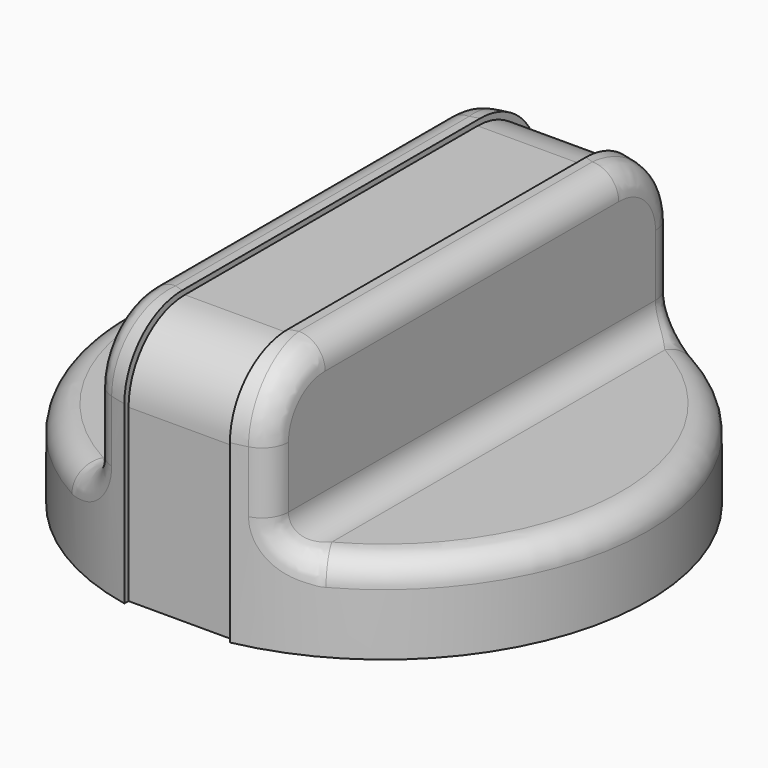
from build123d import *

# Parameters (mm, degrees)
BOX007_W          = 10
BOX007_H          = 10
BOX007_DEPTH      = 17
CYLINDER002_R     = 3.4
CYLINDER002_DEPTH = 13
BOX006_W          = 6
BOX006_H          = 10
BOX006_DEPTH      = 15
BOX005_W          = 6
BOX005_H          = 10
BOX005_DEPTH      = 15
CYLINDER001_R     = 15
CYLINDER001_DEPTH = 2.5
BOX004_W          = 6
BOX004_H          = 10
BOX004_DEPTH      = 15
BOX003_W          = 6
BOX003_H          = 10
BOX003_DEPTH      = 15
BOX002_W          = 6
BOX002_H          = 35
BOX002_DEPTH      = 10
BOX001_W          = 15
BOX001_H          = 35
BOX001_DEPTH      = 10
BOX_W             = 15
BOX_H             = 35
BOX_DEPTH         = 10
CYLINDER_R        = 15
CYLINDER_DEPTH    = 12
FILLET_R          = 4
FILLET001_R       = 1.5
FILLET002_R       = 1.5


with BuildPart() as cubo005:
    # Box007 → Box007 (new body)
    with BuildSketch(Plane(origin=(-5, 2.6, -28), x_dir=(1, 0, 0), z_dir=(0, 0, 1))):
        with Locations((5, 5)):
            Rectangle(BOX007_W, BOX007_H)
    extrude(amount=BOX007_DEPTH)


with BuildPart() as cut007:
    # Cylinder002 → Cylinder002 (new body)
    with BuildSketch(Plane.XY.offset(-26)):
        Circle(CYLINDER002_R)
    extrude(amount=CYLINDER002_DEPTH)

    # Cut007: cut Cubo005
    add(cubo005.part, mode=Mode.SUBTRACT)


with BuildPart() as cut007_1:
    # Cut007 placement: moved
    add(cut007.part.moved(Location((0, 0, 23))))


with BuildPart() as cubo004:
    # Box006 → Box006 (new body)
    with BuildSketch(Plane(origin=(-3, 14.4, -2), x_dir=(1, 0, 0), z_dir=(0, 0, 1))):
        with Locations((3, 5)):
            Rectangle(BOX006_W, BOX006_H)
    extrude(amount=BOX006_DEPTH)


with BuildPart() as cubo003:
    # Box005 → Box005 (new body)
    with BuildSketch(Plane(origin=(-3, -24.4, -2), x_dir=(1, 0, 0), z_dir=(0, 0, 1))):
        with Locations((3, 5)):
            Rectangle(BOX005_W, BOX005_H)
    extrude(amount=BOX005_DEPTH)


with BuildPart() as cilindro001:
    # Cylinder001 → Cylinder001 (new body)
    with BuildSketch(Plane.XY.offset(-2)):
        Circle(CYLINDER001_R)
    extrude(amount=CYLINDER001_DEPTH)


with BuildPart() as cubo002:
    # Box004 → Box004 (new body)
    with BuildSketch(Plane(origin=(-3, -24.4, -2), x_dir=(1, 0, 0), z_dir=(0, 0, 1))):
        with Locations((3, 5)):
            Rectangle(BOX004_W, BOX004_H)
    extrude(amount=BOX004_DEPTH)


with BuildPart() as cubo001:
    # Box003 → Box003 (new body)
    with BuildSketch(Plane(origin=(-3, 14.4, -2), x_dir=(1, 0, 0), z_dir=(0, 0, 1))):
        with Locations((3, 5)):
            Rectangle(BOX003_W, BOX003_H)
    extrude(amount=BOX003_DEPTH)


with BuildPart() as cubo:
    # Box002 → Box002 (new body)
    with BuildSketch(Plane(origin=(-3, -17, 11.7), x_dir=(1, 0, 0), z_dir=(0, 0, 1))):
        with Locations((3, 17.5)):
            Rectangle(BOX002_W, BOX002_H)
    extrude(amount=BOX002_DEPTH)


with BuildPart() as box001:
    # Box001 → Box001 (new body)
    with BuildSketch(Plane(origin=(-20, -15, 3), x_dir=(1, 0, 0), z_dir=(0, 0, 1))):
        with Locations((7.5, 17.5)):
            Rectangle(BOX001_W, BOX001_H)
    extrude(amount=BOX001_DEPTH)


with BuildPart() as box:
    # Box → Box (new body)
    with BuildSketch(Plane(origin=(5, -15, 3), x_dir=(1, 0, 0), z_dir=(0, 0, 1))):
        with Locations((7.5, 17.5)):
            Rectangle(BOX_W, BOX_H)
    extrude(amount=BOX_DEPTH)


with BuildPart() as fuel_knob:
    # Cylinder → Cylinder (new body)
    with BuildSketch(Plane.XY):
        Circle(CYLINDER_R)
    extrude(amount=CYLINDER_DEPTH)

    # Cut: cut Box
    add(box.part, mode=Mode.SUBTRACT)

    # Cut001: cut Box001
    add(box001.part, mode=Mode.SUBTRACT)

    # Cut002: cut Cubo
    add(cubo.part, mode=Mode.SUBTRACT)

    # Cut003: cut Cubo001
    add(cubo001.part, mode=Mode.SUBTRACT)

    # Cut004: cut Cubo002
    add(cubo002.part, mode=Mode.SUBTRACT)

    # Fusion: union Cilindro001
    add(cilindro001.part)

    # Cut005: cut Cubo003
    add(cubo003.part, mode=Mode.SUBTRACT)

    # Cut006: cut Cubo004
    add(cubo004.part, mode=Mode.SUBTRACT)

    # Fillet
    fillet_edges = [fuel_knob.edges().sort_by_distance(p)[0] for p in [
        (0, -14.4, 11.7),
        (0, 14.4, 11.7),
        (-4.009607, -14.454171, 12),
        (-4.009607, 14.454171, 12),
        (4.009607, 14.454171, 12),
        (4.009607, -14.454171, 12),
    ]]
    fillet(fillet_edges, radius=FILLET_R)

    # Fillet001
    fillet001_edges = [fuel_knob.edges().sort_by_distance(p)[0] for p in [
        (-5, 0, 3),
        (5, 0, 3),
    ]]
    fillet(fillet001_edges, radius=FILLET001_R)

    # Fillet002
    fillet002_edges = [fuel_knob.edges().sort_by_distance(p)[0] for p in [
        (-5, 0, 12),
        (5, 0, 12),
    ]]
    fillet(fillet002_edges, radius=FILLET002_R)

    # Cut008: cut Cut007
    add(cut007_1.part, mode=Mode.SUBTRACT)


solid = fuel_knob.part
